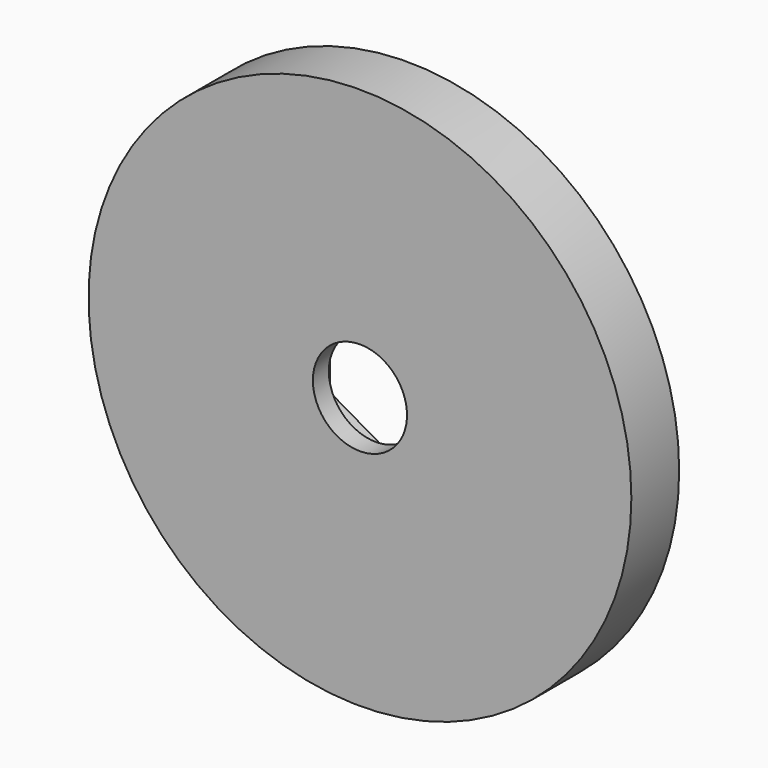
from build123d import *

# Parameters (mm, degrees)
F0_R     = 17.299
F1_DEPTH = 3.81
F3_DEPTH = 1.27
F4_DEPTH = 2.54
F5_R     = 3
F6_DEPTH = 3.811


with BuildPart() as f1:
    # F0 (on Front) → F1 (new body)
    with BuildSketch(Plane.XZ):
        Circle(F0_R)
    extrude(amount=F1_DEPTH)

    # F2 (on Front) → F3 (cut)
    with BuildSketch(Plane.XZ):
        Polygon((-4.95, 2.857884), (-4.95, -2.857884), (0, -5.715768), (4.95, -2.857884), (4.95, 2.857884), (0, 5.715768), align=None)
    extrude(amount=F3_DEPTH, mode=Mode.SUBTRACT)

    # F2 (on Front) → F4 (cut)
    with BuildSketch(Plane.XZ):
        Polygon((-4.95, 2.857884), (-4.95, -2.857884), (0, -5.715768), (4.95, -2.857884), (4.95, 2.857884), (0, 5.715768), align=None)
    extrude(amount=F4_DEPTH, mode=Mode.SUBTRACT)

    # F5 (on face) → F6 (cut, through all)
    with BuildSketch(Plane(origin=(0, 0, 0), x_dir=(-1, 0, 0), z_dir=(0, 1, 0))):
        Circle(F5_R)
    extrude(amount=-F6_DEPTH, mode=Mode.SUBTRACT)


solid = f1.part
